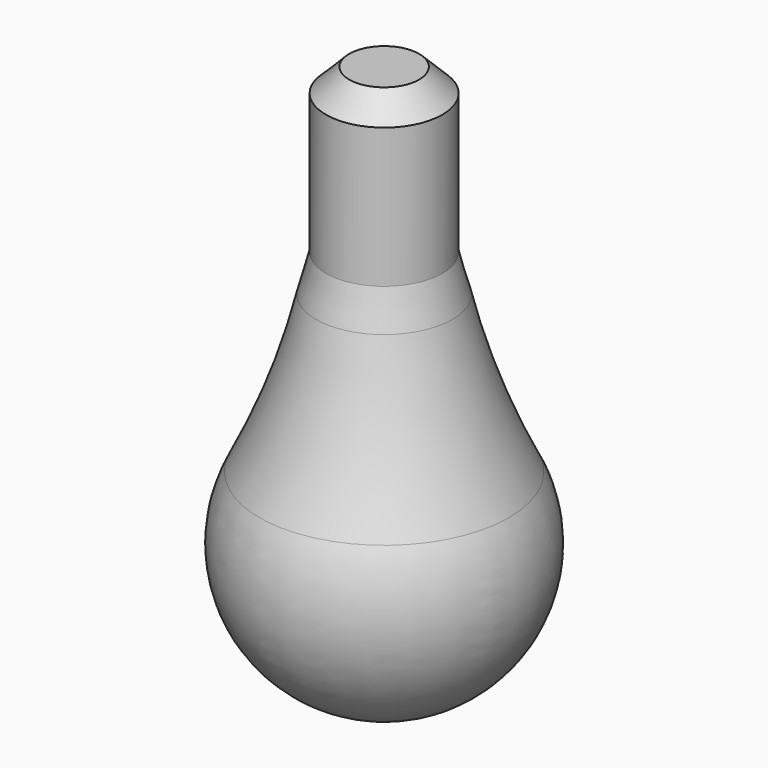
from build123d import *


with BuildPart() as f1:
    # F0 (on Front) → F1 (revolve)
    with BuildSketch(Plane.XZ):
        with BuildLine():
            Line((7.5, 0), (0, 0))
            Line((0, 0), (0, -120))
            ThreePointArc((0, -120), (25.545106, -105.730466), (26.789095, -76.496505))
            ThreePointArc((26.789095, -76.496505), (19.718232, -60.110158), (14.643594, -43))
            Line((14.643594, -43), (12.5, -35))
            Line((12.5, -35), (12.5, -5))
            Line((12.5, -5), (7.5, 0))
        make_face()
    revolve(axis=Axis((0, 0, -60), (0, 0, 1)))


solid = f1.part
